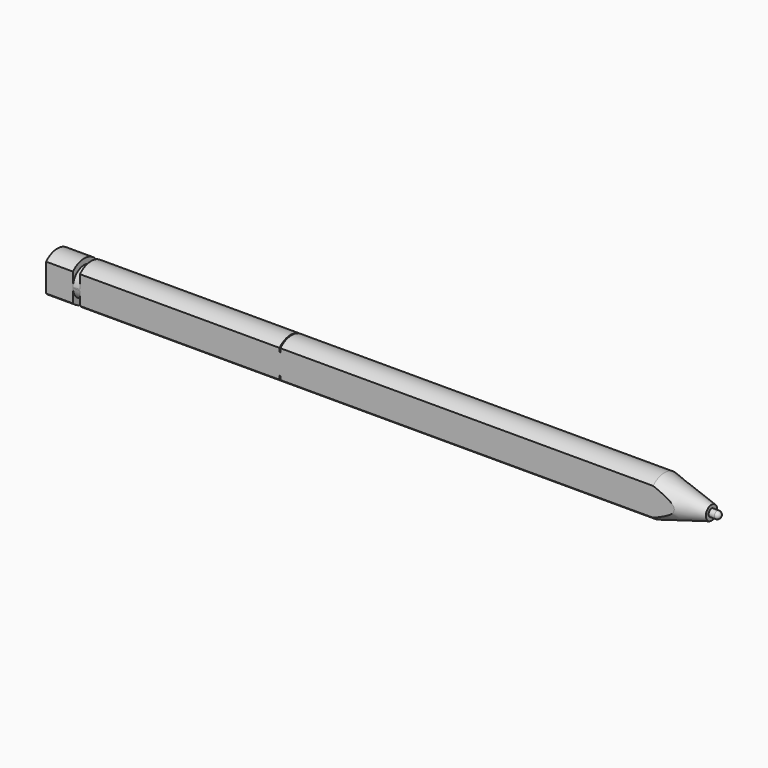
from build123d import *

# Parameters (mm, degrees)
F3_DEPTH = 141.001


with BuildPart() as f1:
    # F0 (on Top) → F1 (revolve)
    with BuildSketch(Plane.XY):
        with BuildLine():
            Line((-68.743618687, 4.225), (-68.743618687, 0))
            Line((-68.743618687, 0), (70.256381313, 0))
            Line((70.256381313, 0), (72.256381313, 0))
            ThreePointArc((72.256381313, 0), (72.0293890684, 0.5480077554), (71.481381313, 0.775))
            Line((71.481381313, 0.775), (70.256381313, 0.775))
            Line((70.256381313, 0.775), (70.256381313, 1.5))
            Line((70.256381313, 1.5), (60.256381313, 4.225))
            Line((60.256381313, 4.225), (-18.9439036584, 4.225))
            Line((-18.9439036584, 4.225), (-18.9439036584, 3.725))
            Line((-18.9439036584, 3.725), (-19.1439036584, 3.725))
            Line((-19.1439036584, 3.725), (-19.1439036584, 4.225))
            Line((-19.1439036584, 4.225), (-61.5436239102, 4.225))
            Line((-61.5436239102, 4.225), (-61.5436239102, 3.003958482))
            Line((-61.5436239102, 3.003958482), (-63.043618687, 3))
            Line((-63.043618687, 3), (-63.043618687, 4.225))
            Line((-63.043618687, 4.225), (-68.743618687, 4.225))
        make_face()
    revolve(axis=Axis((0.756381313, 0, 0), (1, 0, 0)))

    # F2 (on face) → F3 (cut, through all)
    with BuildSketch(Plane(origin=(-68.743618687, 0, 0), x_dir=(0, -1, 0), z_dir=(-1, 0, 0))):
        with BuildLine():
            Line((-3, -2.975), (-3, 2.975))
            ThreePointArc((-3, 2.975), (-4.225, 0), (-3, -2.975))
        make_face()
        with BuildLine():
            ThreePointArc((4.225, 0), (3.9067649661, 1.6086679272), (3, 2.975))
            Line((3, 2.975), (3, -2.975))
            ThreePointArc((3, -2.975), (3.9067649661, -1.6086679272), (4.225, 0))
        make_face()
    extrude(amount=-F3_DEPTH, mode=Mode.SUBTRACT)


solid = f1.part
